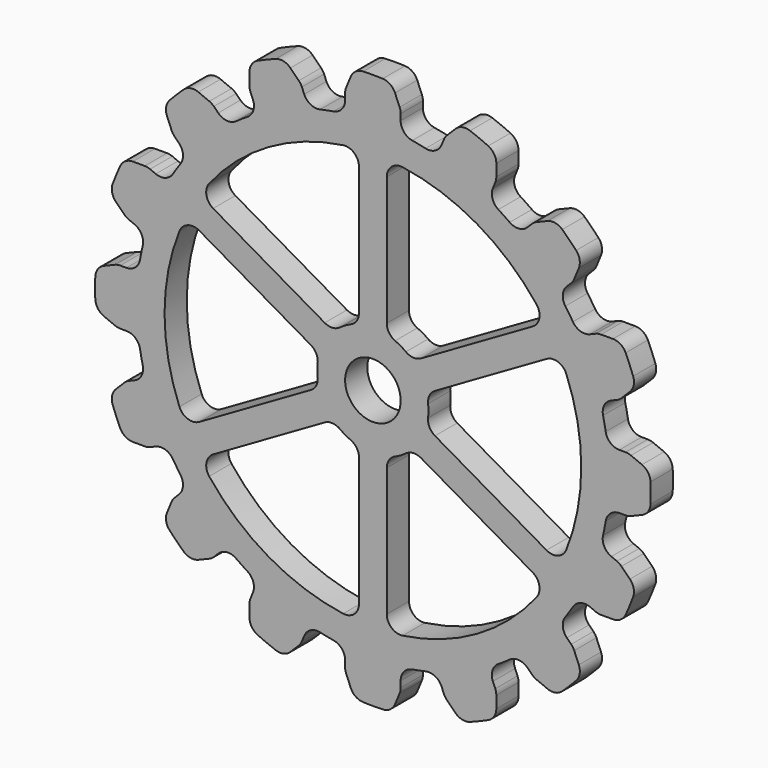
from build123d import *

# Parameters (mm, degrees)
F0_R     = 12.7
F1_DEPTH = 6.35


with BuildPart() as f1:
    # F0 (on Front) → F1 (new body, symmetric)
    with BuildSketch(Plane.XZ):
        with BuildLine():
            ThreePointArc((-54.862198, 99.262363), (-54.679532, 94.9014), (-57.355009, 91.45275))
            ThreePointArc((-57.355009, 91.45275), (-59.973806, 89.757145), (-62.542512, 87.986571))
            ThreePointArc((-62.542512, 87.986571), (-66.75251, 86.834495), (-70.711611, 88.672124))
            Line((-70.711611, 88.672124), (-72.703855, 90.664368))
            ThreePointArc((-72.703855, 90.664368), (-73.666112, 91.454072), (-74.763943, 92.040875))
            Line((-74.763943, 92.040875), (-79.820087, 94.135198))
            ThreePointArc((-79.820087, 94.135198), (-83.378901, 94.517432), (-86.579081, 92.914277))
            ThreePointArc((-86.579081, 92.914277), (-89.802561, 89.802562), (-92.914276, 86.579081))
            ThreePointArc((-92.914276, 86.579081), (-94.517432, 83.378901), (-94.135197, 79.820087))
            Line((-94.135197, 79.820087), (-92.040874, 74.763944))
            ThreePointArc((-92.040874, 74.763944), (-91.454071, 73.666112), (-90.664367, 72.703855))
            Line((-90.664367, 72.703855), (-88.672123, 70.711612))
            ThreePointArc((-88.672123, 70.711612), (-86.834494, 66.75251), (-87.986571, 62.542512))
            ThreePointArc((-87.986571, 62.542512), (-89.757144, 59.973807), (-91.45275, 57.355009))
            ThreePointArc((-91.45275, 57.355009), (-94.9014, 54.679533), (-99.262363, 54.862198))
            Line((-99.262363, 54.862198), (-101.865355, 55.940393))
            ThreePointArc((-101.865355, 55.940393), (-103.056571, 56.301744), (-104.295394, 56.423758))
            Line((-104.295394, 56.423758), (-109.768125, 56.423758))
            ThreePointArc((-109.768125, 56.423758), (-113.202315, 55.414997), (-115.545395, 52.709219))
            ThreePointArc((-115.545395, 52.709219), (-117.3327, 48.600796), (-118.973978, 44.431887))
            ThreePointArc((-118.973978, 44.431887), (-119.230445, 40.861805), (-117.515407, 37.720165))
            Line((-117.515407, 37.720165), (-113.645602, 33.85036))
            ThreePointArc((-113.645602, 33.85036), (-112.683345, 33.060656), (-111.585514, 32.473853))
            Line((-111.585514, 32.473853), (-108.982522, 31.395658))
            ThreePointArc((-108.982522, 31.395658), (-105.769692, 28.441156), (-105.222975, 24.110744))
            ThreePointArc((-105.222975, 24.110744), (-105.875771, 21.060001), (-106.440135, 17.991667))
            ThreePointArc((-106.440135, 17.991667), (-108.602412, 14.200108), (-112.70132, 12.7))
            Line((-112.70132, 12.7), (-115.518778, 12.7))
            ThreePointArc((-115.518778, 12.7), (-116.757601, 12.577987), (-117.948818, 12.216635))
            Line((-117.948818, 12.216635), (-123.004961, 10.122312))
            ThreePointArc((-123.004961, 10.122312), (-125.791703, 7.876131), (-126.92097, 4.47966))
            ThreePointArc((-126.92097, 4.47966), (-127, 0), (-126.92097, -4.479659))
            ThreePointArc((-126.92097, -4.479659), (-125.791703, -7.87613), (-123.004961, -10.122311))
            Line((-123.004961, -10.122311), (-117.948818, -12.216635))
            ThreePointArc((-117.948818, -12.216635), (-116.757601, -12.577986), (-115.518778, -12.7))
            Line((-115.518778, -12.7), (-112.70132, -12.7))
            ThreePointArc((-112.70132, -12.7), (-108.602413, -14.200107), (-106.440135, -17.991666))
            ThreePointArc((-106.440135, -17.991666), (-105.875771, -21.06), (-105.222975, -24.110743))
            ThreePointArc((-105.222975, -24.110743), (-105.769692, -28.441155), (-108.982522, -31.395657))
            Line((-108.982522, -31.395657), (-111.585514, -32.473852))
            ThreePointArc((-111.585514, -32.473852), (-112.683345, -33.060655), (-113.645602, -33.850359))
            Line((-113.645602, -33.850359), (-117.515407, -37.720164))
            ThreePointArc((-117.515407, -37.720164), (-119.230445, -40.861804), (-118.973978, -44.431886))
            ThreePointArc((-118.973978, -44.431886), (-117.332701, -48.600796), (-115.545395, -52.709218))
            ThreePointArc((-115.545395, -52.709218), (-113.202316, -55.414996), (-109.768125, -56.423757))
            Line((-109.768125, -56.423757), (-104.295395, -56.423757))
            ThreePointArc((-104.295395, -56.423757), (-103.056571, -56.301744), (-101.865355, -55.940392))
            Line((-101.865355, -55.940392), (-99.262363, -54.862198))
            ThreePointArc((-99.262363, -54.862198), (-94.9014, -54.679532), (-91.45275, -57.355009))
            ThreePointArc((-91.45275, -57.355009), (-89.757145, -59.973806), (-87.986571, -62.542512))
            ThreePointArc((-87.986571, -62.542512), (-86.834495, -66.75251), (-88.672124, -70.711611))
            Line((-88.672124, -70.711611), (-90.664367, -72.703855))
            ThreePointArc((-90.664367, -72.703855), (-91.454071, -73.666112), (-92.040874, -74.763943))
            Line((-92.040874, -74.763943), (-94.135198, -79.820087))
            ThreePointArc((-94.135198, -79.820087), (-94.517432, -83.378901), (-92.914277, -86.579081))
            ThreePointArc((-92.914277, -86.579081), (-89.802561, -89.802561), (-86.579081, -92.914276))
            ThreePointArc((-86.579081, -92.914276), (-83.378901, -94.517432), (-79.820087, -94.135197))
            Line((-79.820087, -94.135197), (-74.763944, -92.040874))
            ThreePointArc((-74.763944, -92.040874), (-73.666112, -91.454071), (-72.703855, -90.664367))
            Line((-72.703855, -90.664367), (-70.711612, -88.672123))
            ThreePointArc((-70.711612, -88.672123), (-66.75251, -86.834494), (-62.542512, -87.986571))
            ThreePointArc((-62.542512, -87.986571), (-59.973807, -89.757144), (-57.355009, -91.45275))
            ThreePointArc((-57.355009, -91.45275), (-54.679533, -94.9014), (-54.862198, -99.262363))
            Line((-54.862198, -99.262363), (-55.940393, -101.865355))
            ThreePointArc((-55.940393, -101.865355), (-56.301744, -103.056571), (-56.423758, -104.295394))
            Line((-56.423758, -104.295394), (-56.423758, -109.768125))
            ThreePointArc((-56.423758, -109.768125), (-55.414997, -113.202315), (-52.709219, -115.545395))
            ThreePointArc((-52.709219, -115.545395), (-48.600796, -117.3327), (-44.431887, -118.973978))
            ThreePointArc((-44.431887, -118.973978), (-40.861805, -119.230445), (-37.720165, -117.515407))
            Line((-37.720165, -117.515407), (-33.85036, -113.645602))
            ThreePointArc((-33.85036, -113.645602), (-33.060656, -112.683345), (-32.473853, -111.585514))
            Line((-32.473853, -111.585514), (-31.395658, -108.982522))
            ThreePointArc((-31.395658, -108.982522), (-28.441156, -105.769692), (-24.110744, -105.222975))
            ThreePointArc((-24.110744, -105.222975), (-21.060001, -105.875771), (-17.991667, -106.440135))
            ThreePointArc((-17.991667, -106.440135), (-14.200108, -108.602412), (-12.7, -112.70132))
            Line((-12.7, -112.70132), (-12.7, -115.518778))
            ThreePointArc((-12.7, -115.518778), (-12.577987, -116.757601), (-12.216635, -117.948818))
            Line((-12.216635, -117.948818), (-10.122312, -123.004961))
            ThreePointArc((-10.122312, -123.004961), (-7.876131, -125.791703), (-4.47966, -126.92097))
            ThreePointArc((-4.47966, -126.92097), (0, -127), (4.479659, -126.92097))
            ThreePointArc((4.479659, -126.92097), (7.87613, -125.791703), (10.122311, -123.004961))
            Line((10.122311, -123.004961), (12.216635, -117.948818))
            ThreePointArc((12.216635, -117.948818), (12.577986, -116.757601), (12.7, -115.518778))
            Line((12.7, -115.518778), (12.7, -112.70132))
            ThreePointArc((12.7, -112.70132), (14.200107, -108.602413), (17.991666, -106.440135))
            ThreePointArc((17.991666, -106.440135), (21.06, -105.875771), (24.110744, -105.222975))
            ThreePointArc((24.110744, -105.222975), (28.441155, -105.769692), (31.395658, -108.982522))
            Line((31.395658, -108.982522), (32.473852, -111.585514))
            ThreePointArc((32.473852, -111.585514), (33.060655, -112.683345), (33.850359, -113.645602))
            Line((33.850359, -113.645602), (37.720164, -117.515407))
            ThreePointArc((37.720164, -117.515407), (40.861805, -119.230445), (44.431886, -118.973978))
            ThreePointArc((44.431886, -118.973978), (48.600796, -117.332701), (52.709218, -115.545395))
            ThreePointArc((52.709218, -115.545395), (55.414997, -113.202315), (56.423757, -109.768125))
            Line((56.423757, -109.768125), (56.423757, -104.295395))
            ThreePointArc((56.423757, -104.295395), (56.301744, -103.056571), (55.940392, -101.865355))
            Line((55.940392, -101.865355), (54.862198, -99.262363))
            ThreePointArc((54.862198, -99.262363), (54.679532, -94.9014), (57.355009, -91.45275))
            ThreePointArc((57.355009, -91.45275), (59.973806, -89.757145), (62.542512, -87.986571))
            ThreePointArc((62.542512, -87.986571), (66.75251, -86.834495), (70.711611, -88.672124))
            Line((70.711611, -88.672124), (72.703855, -90.664367))
            ThreePointArc((72.703855, -90.664367), (73.666112, -91.454071), (74.763943, -92.040874))
            Line((74.763943, -92.040874), (79.820087, -94.135198))
            ThreePointArc((79.820087, -94.135198), (83.378901, -94.517432), (86.579081, -92.914277))
            ThreePointArc((86.579081, -92.914277), (89.802561, -89.802561), (92.914276, -86.579081))
            ThreePointArc((92.914276, -86.579081), (94.517432, -83.378901), (94.135197, -79.820087))
            Line((94.135197, -79.820087), (92.040874, -74.763943))
            ThreePointArc((92.040874, -74.763943), (91.454071, -73.666112), (90.664367, -72.703855))
            Line((90.664367, -72.703855), (88.672124, -70.711612))
            ThreePointArc((88.672124, -70.711612), (86.834494, -66.75251), (87.986571, -62.542512))
            ThreePointArc((87.986571, -62.542512), (89.757145, -59.973807), (91.45275, -57.355009))
            ThreePointArc((91.45275, -57.355009), (94.9014, -54.679533), (99.262363, -54.862198))
            Line((99.262363, -54.862198), (101.865355, -55.940393))
            ThreePointArc((101.865355, -55.940393), (103.056571, -56.301744), (104.295395, -56.423758))
            Line((104.295395, -56.423758), (109.768125, -56.423758))
            ThreePointArc((109.768125, -56.423758), (113.202315, -55.414997), (115.545395, -52.709219))
            ThreePointArc((115.545395, -52.709219), (117.332701, -48.600796), (118.973978, -44.431887))
            ThreePointArc((118.973978, -44.431887), (119.230445, -40.861805), (117.515407, -37.720164))
            Line((117.515407, -37.720164), (113.645602, -33.850359))
            ThreePointArc((113.645602, -33.850359), (112.683345, -33.060655), (111.585514, -32.473852))
            Line((111.585514, -32.473852), (108.982522, -31.395658))
            ThreePointArc((108.982522, -31.395658), (105.769692, -28.441156), (105.222975, -24.110744))
            ThreePointArc((105.222975, -24.110744), (105.875771, -21.06), (106.440135, -17.991667))
            ThreePointArc((106.440135, -17.991667), (108.602412, -14.200108), (112.70132, -12.7))
            Line((112.70132, -12.7), (115.518778, -12.7))
            ThreePointArc((115.518778, -12.7), (116.757601, -12.577987), (117.948818, -12.216635))
            Line((117.948818, -12.216635), (123.004961, -10.122312))
            ThreePointArc((123.004961, -10.122312), (125.791703, -7.876131), (126.92097, -4.47966))
            ThreePointArc((126.92097, -4.47966), (127, 0), (126.92097, 4.479659))
            ThreePointArc((126.92097, 4.479659), (125.791703, 7.876131), (123.004961, 10.122312))
            Line((123.004961, 10.122312), (117.948818, 12.216635))
            ThreePointArc((117.948818, 12.216635), (116.757601, 12.577986), (115.518778, 12.7))
            Line((115.518778, 12.7), (112.70132, 12.7))
            ThreePointArc((112.70132, 12.7), (108.602413, 14.200107), (106.440135, 17.991667))
            ThreePointArc((106.440135, 17.991667), (105.875771, 21.06), (105.222975, 24.110744))
            ThreePointArc((105.222975, 24.110744), (105.769692, 28.441155), (108.982522, 31.395658))
            Line((108.982522, 31.395658), (111.585514, 32.473852))
            ThreePointArc((111.585514, 32.473852), (112.683345, 33.060655), (113.645602, 33.850359))
            Line((113.645602, 33.850359), (117.515407, 37.720164))
            ThreePointArc((117.515407, 37.720164), (119.230445, 40.861805), (118.973978, 44.431887))
            ThreePointArc((118.973978, 44.431887), (117.332701, 48.600796), (115.545395, 52.709218))
            ThreePointArc((115.545395, 52.709218), (113.202315, 55.414997), (109.768125, 56.423757))
            Line((109.768125, 56.423757), (104.295395, 56.423757))
            ThreePointArc((104.295395, 56.423757), (103.056571, 56.301744), (101.865355, 55.940392))
            Line((101.865355, 55.940392), (99.262363, 54.862198))
            ThreePointArc((99.262363, 54.862198), (94.9014, 54.679532), (91.45275, 57.355009))
            ThreePointArc((91.45275, 57.355009), (89.757145, 59.973807), (87.986571, 62.542512))
            ThreePointArc((87.986571, 62.542512), (86.834495, 66.75251), (88.672124, 70.711611))
            Line((88.672124, 70.711611), (90.664367, 72.703855))
            ThreePointArc((90.664367, 72.703855), (91.454071, 73.666112), (92.040874, 74.763943))
            Line((92.040874, 74.763943), (94.135198, 79.820087))
            ThreePointArc((94.135198, 79.820087), (94.517432, 83.378901), (92.914276, 86.579081))
            ThreePointArc((92.914276, 86.579081), (89.802561, 89.802561), (86.579081, 92.914276))
            ThreePointArc((86.579081, 92.914276), (83.378901, 94.517432), (79.820087, 94.135198))
            Line((79.820087, 94.135198), (74.763943, 92.040874))
            ThreePointArc((74.763943, 92.040874), (73.666112, 91.454071), (72.703855, 90.664367))
            Line((72.703855, 90.664367), (70.711611, 88.672124))
            ThreePointArc((70.711611, 88.672124), (66.75251, 86.834495), (62.542512, 87.986571))
            ThreePointArc((62.542512, 87.986571), (59.973807, 89.757145), (57.355009, 91.45275))
            ThreePointArc((57.355009, 91.45275), (54.679533, 94.9014), (54.862198, 99.262363))
            Line((54.862198, 99.262363), (55.940392, 101.865355))
            ThreePointArc((55.940392, 101.865355), (56.301744, 103.056571), (56.423757, 104.295395))
            Line((56.423757, 104.295395), (56.423757, 109.768125))
            ThreePointArc((56.423757, 109.768125), (55.414997, 113.202315), (52.709218, 115.545395))
            ThreePointArc((52.709218, 115.545395), (48.600796, 117.332701), (44.431887, 118.973978))
            ThreePointArc((44.431887, 118.973978), (40.861805, 119.230445), (37.720164, 117.515407))
            Line((37.720164, 117.515407), (33.850359, 113.645602))
            ThreePointArc((33.850359, 113.645602), (33.060655, 112.683345), (32.473852, 111.585514))
            Line((32.473852, 111.585514), (31.395658, 108.982522))
            ThreePointArc((31.395658, 108.982522), (28.441155, 105.769692), (24.110744, 105.222975))
            ThreePointArc((24.110744, 105.222975), (21.06, 105.875771), (17.991667, 106.440135))
            ThreePointArc((17.991667, 106.440135), (14.200107, 108.602412), (12.7, 112.70132))
            Line((12.7, 112.70132), (12.7, 115.518778))
            ThreePointArc((12.7, 115.518778), (12.577987, 116.757601), (12.216635, 117.948818))
            Line((12.216635, 117.948818), (10.122312, 123.004961))
            ThreePointArc((10.122312, 123.004961), (7.876131, 125.791703), (4.47966, 126.92097))
            ThreePointArc((4.47966, 126.92097), (0, 127), (-4.47966, 126.92097))
            ThreePointArc((-4.47966, 126.92097), (-7.876131, 125.791703), (-10.122312, 123.004961))
            Line((-10.122312, 123.004961), (-12.216635, 117.948818))
            ThreePointArc((-12.216635, 117.948818), (-12.577987, 116.757601), (-12.7, 115.518778))
            Line((-12.7, 115.518778), (-12.7, 112.70132))
            ThreePointArc((-12.7, 112.70132), (-14.200107, 108.602412), (-17.991667, 106.440135))
            ThreePointArc((-17.991667, 106.440135), (-21.06, 105.875771), (-24.110743, 105.222975))
            ThreePointArc((-24.110743, 105.222975), (-28.441155, 105.769692), (-31.395657, 108.982522))
            Line((-31.395657, 108.982522), (-32.473852, 111.585514))
            ThreePointArc((-32.473852, 111.585514), (-33.060655, 112.683345), (-33.850359, 113.645602))
            Line((-33.850359, 113.645602), (-37.720164, 117.515407))
            ThreePointArc((-37.720164, 117.515407), (-40.861804, 119.230445), (-44.431886, 118.973978))
            ThreePointArc((-44.431886, 118.973978), (-48.600795, 117.332701), (-52.709218, 115.545395))
            ThreePointArc((-52.709218, 115.545395), (-55.414996, 113.202316), (-56.423757, 109.768125))
            Line((-56.423757, 109.768125), (-56.423757, 104.295395))
            ThreePointArc((-56.423757, 104.295395), (-56.301743, 103.056571), (-55.940392, 101.865355))
            Line((-55.940392, 101.865355), (-54.862198, 99.262363))
        make_face()
        with BuildLine():
            ThreePointArc((-74.839286, -58.920657), (-76.085576, -53.792576), (-73.025, -49.493352))
            Line((-73.025, -49.493352), (-22.025781, -20.048939))
            ThreePointArc((-22.025781, -20.048939), (-18.495107, -19.208169), (-15.080625, -20.43856))
            ThreePointArc((-15.080625, -20.43856), (-12.7, -21.997045), (-10.16, -23.279485))
            ThreePointArc((-10.16, -23.279485), (-7.387209, -25.621317), (-6.35, -29.099356))
            Line((-6.35, -29.099356), (-6.35, -87.988181))
            ThreePointArc((-6.35, -87.988181), (-8.542949, -92.78833), (-13.607143, -94.273051))
            ThreePointArc((-13.607143, -94.273051), (-47.625, -82.48892), (-74.839286, -58.920657))
        make_face(mode=Mode.SUBTRACT)
        with BuildLine():
            ThreePointArc((-88.446429, -35.352394), (-95.25, 0), (-88.446429, 35.352394))
            ThreePointArc((-88.446429, 35.352394), (-84.628525, 38.995754), (-79.375, 38.494829))
            Line((-79.375, 38.494829), (-28.375781, 9.050417))
            ThreePointArc((-28.375781, 9.050417), (-25.882316, 6.413148), (-25.240625, 2.840924))
            ThreePointArc((-25.240625, 2.840924), (-25.4, 0), (-25.240625, -2.840924))
            ThreePointArc((-25.240625, -2.840924), (-25.882316, -6.413148), (-28.375781, -9.050417))
            Line((-28.375781, -9.050417), (-79.375, -38.494829))
            ThreePointArc((-79.375, -38.494829), (-84.628525, -38.995754), (-88.446429, -35.352394))
        make_face(mode=Mode.SUBTRACT)
        with BuildLine():
            Line((22.025781, -20.048939), (73.025, -49.493352))
            ThreePointArc((73.025, -49.493352), (76.085576, -53.792576), (74.839286, -58.920657))
            ThreePointArc((74.839286, -58.920657), (47.625, -82.48892), (13.607143, -94.273051))
            ThreePointArc((13.607143, -94.273051), (8.542949, -92.78833), (6.35, -87.988181))
            Line((6.35, -87.988181), (6.35, -29.099356))
            ThreePointArc((6.35, -29.099356), (7.387209, -25.621317), (10.16, -23.279485))
            ThreePointArc((10.16, -23.279485), (12.7, -21.997045), (15.080625, -20.43856))
            ThreePointArc((15.080625, -20.43856), (18.495107, -19.208169), (22.025781, -20.048939))
        make_face(mode=Mode.SUBTRACT)
        with BuildLine():
            Line((-22.025781, 20.048939), (-73.025, 49.493352))
            ThreePointArc((-73.025, 49.493352), (-76.085576, 53.792576), (-74.839286, 58.920657))
            ThreePointArc((-74.839286, 58.920657), (-47.625, 82.48892), (-13.607143, 94.273051))
            ThreePointArc((-13.607143, 94.273051), (-8.542949, 92.78833), (-6.35, 87.988181))
            Line((-6.35, 87.988181), (-6.35, 29.099356))
            ThreePointArc((-6.35, 29.099356), (-7.387209, 25.621317), (-10.16, 23.279485))
            ThreePointArc((-10.16, 23.279485), (-12.7, 21.997045), (-15.080625, 20.43856))
            ThreePointArc((-15.080625, 20.43856), (-18.495107, 19.208169), (-22.025781, 20.048939))
        make_face(mode=Mode.SUBTRACT)
        Circle(F0_R, mode=Mode.SUBTRACT)
        with BuildLine():
            ThreePointArc((88.446429, -35.352394), (84.628525, -38.995754), (79.375, -38.494829))
            Line((79.375, -38.494829), (28.375781, -9.050417))
            ThreePointArc((28.375781, -9.050417), (25.882316, -6.413148), (25.240625, -2.840924))
            ThreePointArc((25.240625, -2.840924), (25.4, 0), (25.240625, 2.840924))
            ThreePointArc((25.240625, 2.840924), (25.882316, 6.413148), (28.375781, 9.050417))
            Line((28.375781, 9.050417), (79.375, 38.494829))
            ThreePointArc((79.375, 38.494829), (84.628525, 38.995754), (88.446429, 35.352394))
            ThreePointArc((88.446429, 35.352394), (95.25, 0), (88.446429, -35.352394))
        make_face(mode=Mode.SUBTRACT)
        with BuildLine():
            Line((73.025, 49.493352), (22.025781, 20.048939))
            ThreePointArc((22.025781, 20.048939), (18.495107, 19.208169), (15.080625, 20.43856))
            ThreePointArc((15.080625, 20.43856), (12.7, 21.997045), (10.16, 23.279485))
            ThreePointArc((10.16, 23.279485), (7.387209, 25.621317), (6.35, 29.099356))
            Line((6.35, 29.099356), (6.35, 87.988181))
            ThreePointArc((6.35, 87.988181), (8.542949, 92.78833), (13.607143, 94.273051))
            ThreePointArc((13.607143, 94.273051), (47.625, 82.48892), (74.839286, 58.920657))
            ThreePointArc((74.839286, 58.920657), (76.085576, 53.792576), (73.025, 49.493352))
        make_face(mode=Mode.SUBTRACT)
    extrude(amount=F1_DEPTH, both=True)


solid = f1.part
